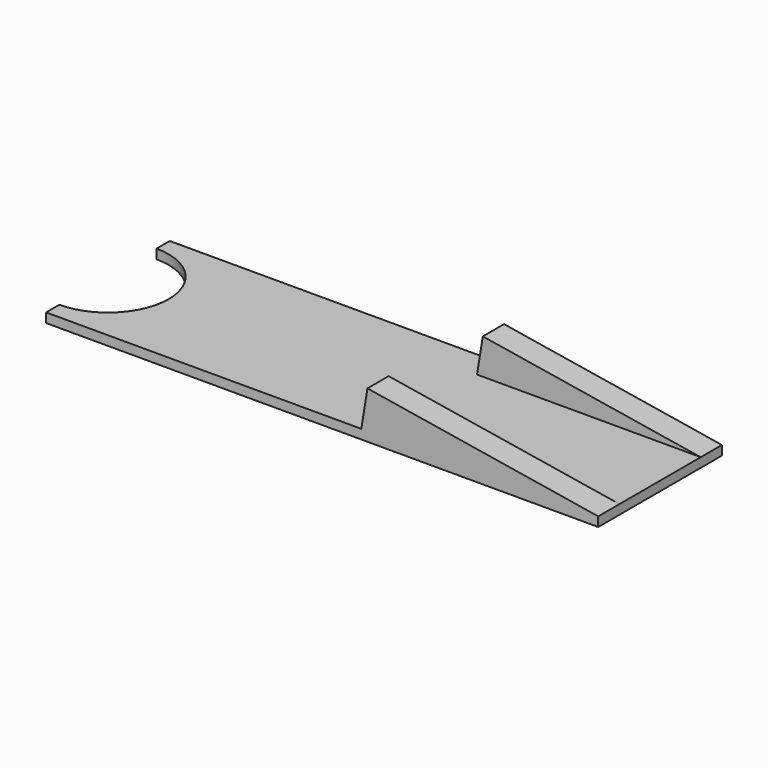
from build123d import *

# Parameters (mm, degrees)
F1_DEPTH = 2.159
F5_W     = 53.7838474663
F5_H     = 6.096
F5_W_2   = 50.7808425279


with BuildPart() as f1:
    # F0 (on Top) → F1 (new body)
    with BuildSketch(Plane.XY):
        with BuildLine():
            Line((-27.1301528547, -3.0107952586), (-27.1301528547, -6.8207952586))
            Line((-27.1301528547, -6.8207952586), (99.8698471453, -6.8207952586))
            Line((99.8698471453, -6.8207952586), (99.8698471453, 28.7392047414))
            Line((99.8698471453, 28.7392047414), (-27.1301528547, 28.7392047414))
            Line((-27.1301528547, 28.7392047414), (-27.1301528547, 24.9292047414))
            ThreePointArc((-27.1301528547, 24.9292047414), (-13.1601528547, 10.9592047414), (-27.1301528547, -3.0107952586))
        make_face()
    extrude(amount=F1_DEPTH)

    # F5 (on 3pt) → F6 (join, up to the next surface of F1)
    with BuildSketch(Plane(origin=(2.9275761968, 0, 17.9605901646), x_dir=(0.9869744889, 0, -0.1608768417), z_dir=(0.1608768417, 0, 0.9869744889))):
        with Locations((71.3297345118, -3.7727952586)):
            Rectangle(F5_W, F5_H)
        with Locations((72.8312369809, 25.6912047414)):
            Rectangle(F5_W_2, F5_H)
    extrude(until=Until.NEXT, dir=(-0.1608768417, 0, -0.9869744889))


solid = f1.part
